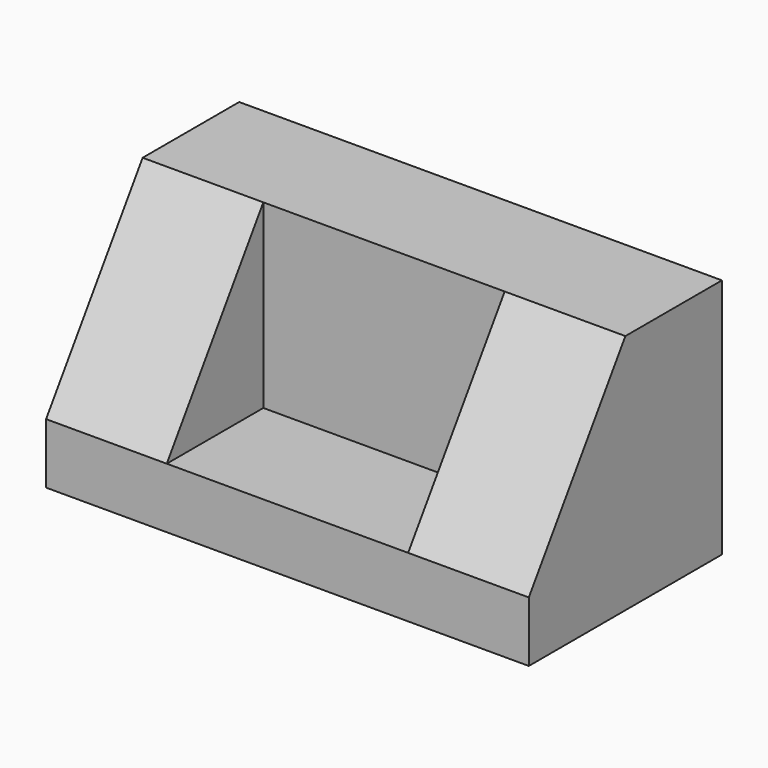
from build123d import *

# Parameters (mm, degrees)
F0_W     = 203.2
F0_H     = 101.6
F1_DEPTH = 101.6
F2_W     = 203.2
F2_H     = 50.8
F3_DEPTH = 76.2
F5_DEPTH = 50.8
F7_DEPTH = 50.8


with BuildPart() as f1:
    # F0 (on Top) → F1 (new body)
    with BuildSketch(Plane.XY):
        Rectangle(F0_W, F0_H)
    extrude(amount=F1_DEPTH)

    # F2 (on face) → F3 (cut)
    with BuildSketch(Plane.XY.offset(101.6)):
        with Locations((0, -25.4)):
            Rectangle(F2_W, F2_H)
    extrude(amount=-F3_DEPTH, mode=Mode.SUBTRACT)

    # F4 (on face) → F5 (join)
    with BuildSketch(Plane.YZ.offset(101.6)):
        Polygon((0, 25.4), (0, 101.6), (-50.8, 25.4), align=None)
    extrude(amount=-F5_DEPTH)

    # F6 (on face) → F7 (join)
    with BuildSketch(Plane(origin=(-101.6, 0, 0), x_dir=(0, -1, 0), z_dir=(-1, 0, 0))):
        Polygon((50.8, 25.4), (0, 101.6), (0, 25.4), align=None)
    extrude(amount=-F7_DEPTH)


solid = f1.part
